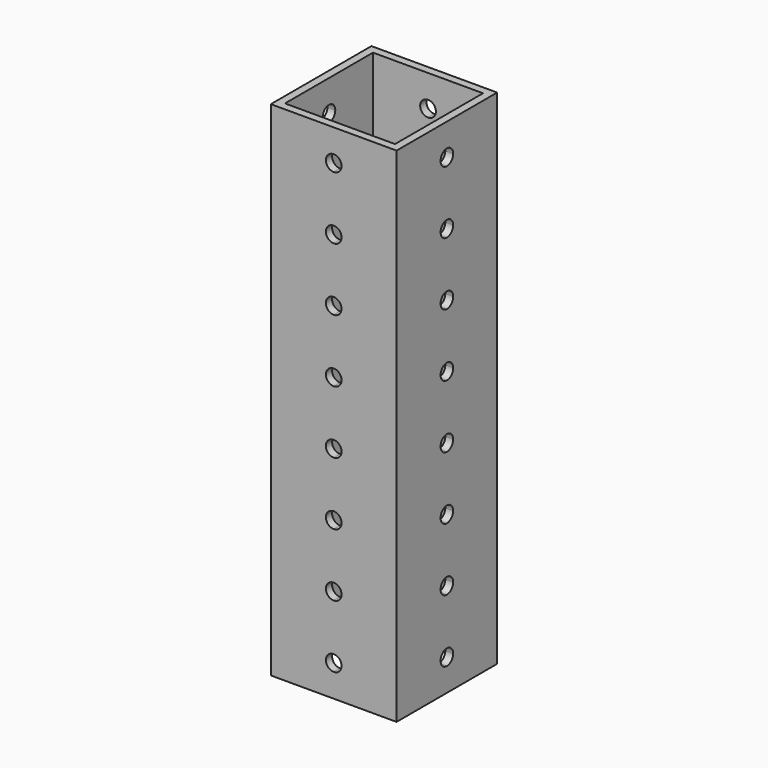
from build123d import *

# Parameters (mm, degrees)
F0_W     = 25.4
F0_H     = 25.4
F0_W_2   = 22.225
F0_H_2   = 22.225
F1_DEPTH = 101.6
F2_R     = 1.5875
F3_DEPTH = 25.4
F5_DEPTH = 25.4


with BuildPart() as f1:
    # F0 (on Top) → F1 (new body)
    with BuildSketch(Plane.XY):
        Rectangle(F0_W, F0_H)
        Rectangle(F0_W_2, F0_H_2, mode=Mode.SUBTRACT)
    extrude(amount=F1_DEPTH)

    # F2 (on face) → F3 (cut)
    with BuildSketch(Plane.XZ.offset(12.7)):
        with BuildLine():
            ThreePointArc((1.5875, 95.25), (1.122532, 96.372532), (0, 96.8375))
            Line((0, 96.8375), (0, 93.6625))
            ThreePointArc((0, 93.6625), (1.122532, 94.127468), (1.5875, 95.25))
        make_face()
        with BuildLine():
            ThreePointArc((1.5875, 6.35), (1.122532, 7.472532), (0, 7.9375))
            Line((0, 7.9375), (0, 4.7625))
            ThreePointArc((0, 4.7625), (1.122532, 5.227468), (1.5875, 6.35))
        make_face()
        with BuildLine():
            Line((0, 4.7625), (0, 7.9375))
            ThreePointArc((0, 7.9375), (-1.5875, 6.35), (0, 4.7625))
        make_face()
        with BuildLine():
            ThreePointArc((1.5875, 19.05), (1.122532, 20.172532), (0, 20.6375))
            Line((0, 20.6375), (0, 17.4625))
            ThreePointArc((0, 17.4625), (1.122532, 17.927468), (1.5875, 19.05))
        make_face()
        with BuildLine():
            Line((0, 17.4625), (0, 20.6375))
            ThreePointArc((0, 20.6375), (-1.5875, 19.05), (0, 17.4625))
        make_face()
        with BuildLine():
            ThreePointArc((1.5875, 31.75), (1.122532, 32.872532), (0, 33.3375))
            Line((0, 33.3375), (0, 30.1625))
            ThreePointArc((0, 30.1625), (1.122532, 30.627468), (1.5875, 31.75))
        make_face()
        with BuildLine():
            Line((0, 30.1625), (0, 33.3375))
            ThreePointArc((0, 33.3375), (-1.5875, 31.75), (0, 30.1625))
        make_face()
        with BuildLine():
            ThreePointArc((1.5875, 44.45), (1.122532, 45.572532), (0, 46.0375))
            Line((0, 46.0375), (0, 42.8625))
            ThreePointArc((0, 42.8625), (1.122532, 43.327468), (1.5875, 44.45))
        make_face()
        with BuildLine():
            Line((0, 42.8625), (0, 46.0375))
            ThreePointArc((0, 46.0375), (-1.5875, 44.45), (0, 42.8625))
        make_face()
        with BuildLine():
            ThreePointArc((1.5875, 57.15), (1.122532, 58.272532), (0, 58.7375))
            Line((0, 58.7375), (0, 55.5625))
            ThreePointArc((0, 55.5625), (1.122532, 56.027468), (1.5875, 57.15))
        make_face()
        with BuildLine():
            Line((0, 55.5625), (0, 58.7375))
            ThreePointArc((0, 58.7375), (-1.5875, 57.15), (0, 55.5625))
        make_face()
        with BuildLine():
            ThreePointArc((1.5875, 69.85), (1.122532, 70.972532), (0, 71.4375))
            Line((0, 71.4375), (0, 68.2625))
            ThreePointArc((0, 68.2625), (1.122532, 68.727468), (1.5875, 69.85))
        make_face()
        with BuildLine():
            Line((0, 68.2625), (0, 71.4375))
            ThreePointArc((0, 71.4375), (-1.5875, 69.85), (0, 68.2625))
        make_face()
        with BuildLine():
            ThreePointArc((1.5875, 82.55), (1.122532, 83.672532), (0, 84.1375))
            Line((0, 84.1375), (0, 80.9625))
            ThreePointArc((0, 80.9625), (1.122532, 81.427468), (1.5875, 82.55))
        make_face()
        with BuildLine():
            Line((0, 80.9625), (0, 84.1375))
            ThreePointArc((0, 84.1375), (-1.5875, 82.55), (0, 80.9625))
        make_face()
        with BuildLine():
            Line((0, 93.6625), (0, 96.8375))
            ThreePointArc((0, 96.8375), (-1.5875, 95.25), (0, 93.6625))
        make_face()
        with Locations((92.636349, -11.009342)):
            Circle(F2_R)
        with Locations((123.515132, -46.429122)):
            Circle(F2_R)
    extrude(amount=-F3_DEPTH, mode=Mode.SUBTRACT)

    # F4 (on face) → F5 (cut)
    with BuildSketch(Plane.YZ.offset(12.7)):
        with BuildLine():
            ThreePointArc((1.5875, 95.25), (1.122532, 96.372532), (0, 96.8375))
            Line((0, 96.8375), (0, 93.6625))
            ThreePointArc((0, 93.6625), (1.122532, 94.127468), (1.5875, 95.25))
        make_face()
        with BuildLine():
            ThreePointArc((1.5875, 6.35), (1.122532, 7.472532), (0, 7.9375))
            Line((0, 7.9375), (0, 4.7625))
            ThreePointArc((0, 4.7625), (1.122532, 5.227468), (1.5875, 6.35))
        make_face()
        with BuildLine():
            Line((0, 4.7625), (0, 7.9375))
            ThreePointArc((0, 7.9375), (-1.5875, 6.35), (0, 4.7625))
        make_face()
        with BuildLine():
            ThreePointArc((1.5875, 19.05), (1.122532, 20.172532), (0, 20.6375))
            Line((0, 20.6375), (0, 17.4625))
            ThreePointArc((0, 17.4625), (1.122532, 17.927468), (1.5875, 19.05))
        make_face()
        with BuildLine():
            Line((0, 17.4625), (0, 20.6375))
            ThreePointArc((0, 20.6375), (-1.5875, 19.05), (0, 17.4625))
        make_face()
        with BuildLine():
            ThreePointArc((1.5875, 31.75), (1.122532, 32.872532), (0, 33.3375))
            Line((0, 33.3375), (0, 30.1625))
            ThreePointArc((0, 30.1625), (1.122532, 30.627468), (1.5875, 31.75))
        make_face()
        with BuildLine():
            Line((0, 30.1625), (0, 33.3375))
            ThreePointArc((0, 33.3375), (-1.5875, 31.75), (0, 30.1625))
        make_face()
        with BuildLine():
            ThreePointArc((1.5875, 44.45), (1.122532, 45.572532), (0, 46.0375))
            Line((0, 46.0375), (0, 42.8625))
            ThreePointArc((0, 42.8625), (1.122532, 43.327468), (1.5875, 44.45))
        make_face()
        with BuildLine():
            Line((0, 42.8625), (0, 46.0375))
            ThreePointArc((0, 46.0375), (-1.5875, 44.45), (0, 42.8625))
        make_face()
        with BuildLine():
            ThreePointArc((1.5875, 57.15), (1.122532, 58.272532), (0, 58.7375))
            Line((0, 58.7375), (0, 55.5625))
            ThreePointArc((0, 55.5625), (1.122532, 56.027468), (1.5875, 57.15))
        make_face()
        with BuildLine():
            Line((0, 55.5625), (0, 58.7375))
            ThreePointArc((0, 58.7375), (-1.5875, 57.15), (0, 55.5625))
        make_face()
        with BuildLine():
            ThreePointArc((1.5875, 69.85), (1.122532, 70.972532), (0, 71.4375))
            Line((0, 71.4375), (0, 68.2625))
            ThreePointArc((0, 68.2625), (1.122532, 68.727468), (1.5875, 69.85))
        make_face()
        with BuildLine():
            Line((0, 68.2625), (0, 71.4375))
            ThreePointArc((0, 71.4375), (-1.5875, 69.85), (0, 68.2625))
        make_face()
        with BuildLine():
            ThreePointArc((1.5875, 82.55), (1.122532, 83.672532), (0, 84.1375))
            Line((0, 84.1375), (0, 80.9625))
            ThreePointArc((0, 80.9625), (1.122532, 81.427468), (1.5875, 82.55))
        make_face()
        with BuildLine():
            Line((0, 80.9625), (0, 84.1375))
            ThreePointArc((0, 84.1375), (-1.5875, 82.55), (0, 80.9625))
        make_face()
        with BuildLine():
            Line((0, 93.6625), (0, 96.8375))
            ThreePointArc((0, 96.8375), (-1.5875, 95.25), (0, 93.6625))
        make_face()
    extrude(amount=-F5_DEPTH, mode=Mode.SUBTRACT)


solid = f1.part
